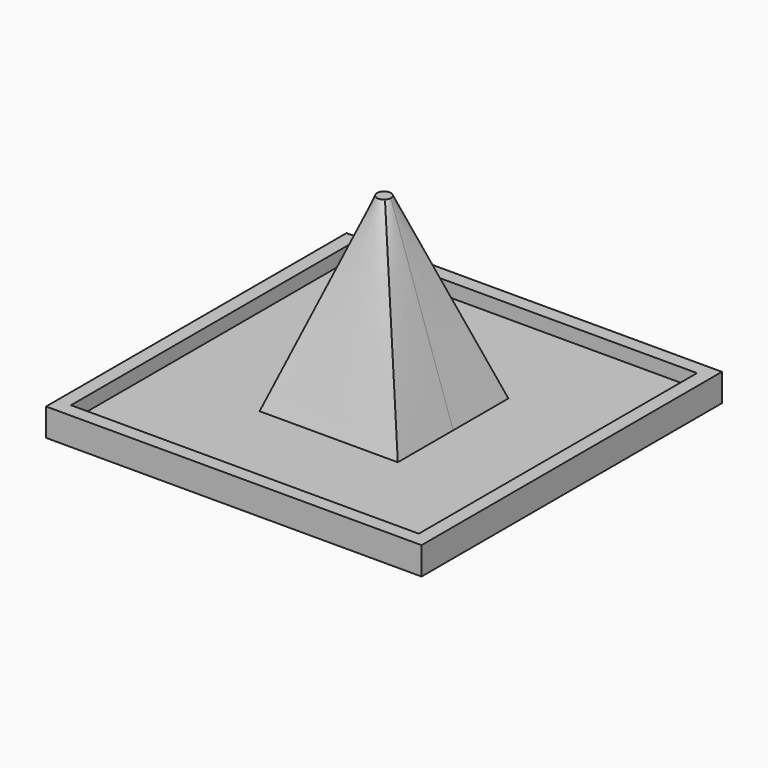
from build123d import *

# Parameters (mm, degrees)
F0_W     = 755
F0_H     = 755
F0_W_2   = 300
F0_H_2   = 300
F1_DEPTH = 30
F0_W_3   = 815
F0_H_3   = 815
F2_DEPTH = 60
F4_W     = 300
F4_H     = 300
F5_R     = 15.0176261861


with BuildPart() as f1:
    # F0 (on Top) → F1 (new body)
    with BuildSketch(Plane.XY):
        Rectangle(F0_W, F0_H)
        Rectangle(F0_W_2, F0_H_2, mode=Mode.SUBTRACT)
        Rectangle(F0_W_2, F0_H_2)
    extrude(amount=F1_DEPTH)

    # F0 (on Top) → F2 (join)
    with BuildSketch(Plane.XY):
        Rectangle(F0_W_3, F0_H_3)
        Rectangle(F0_W, F0_H, mode=Mode.SUBTRACT)
    extrude(amount=F2_DEPTH)

    # F4 (on face) → F6 section 0
    with BuildSketch(Plane.XY.offset(30)):
        Rectangle(F4_W, F4_H)
    # F5 (on offset) → F6 section 1
    with BuildSketch(Plane.XY.offset(430)):
        Circle(F5_R)
    loft()


solid = f1.part
